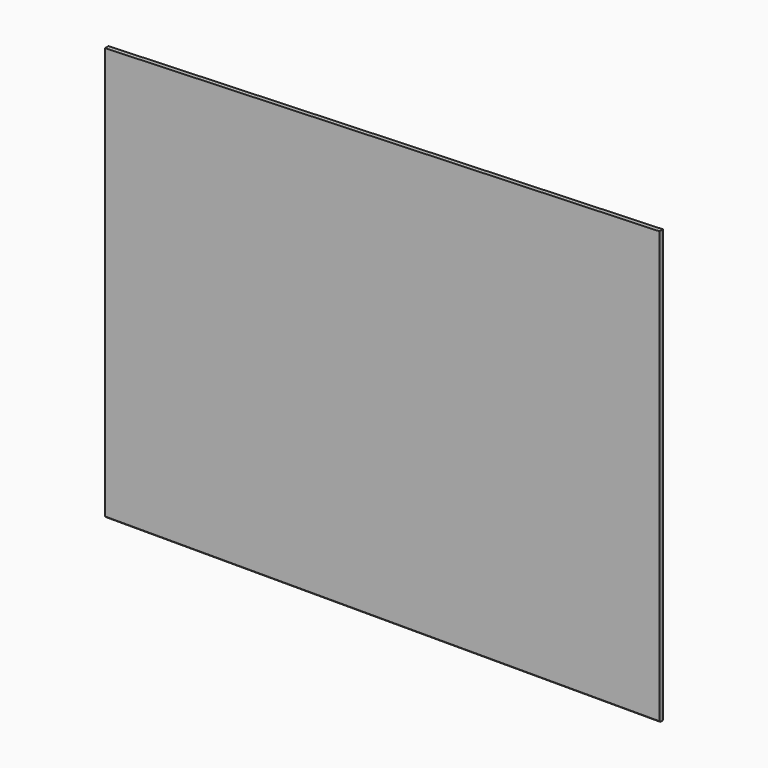
from build123d import *

# Parameters (mm, degrees)
F1_DEPTH = 5.08
F3_DEPTH = 751.84


with BuildPart() as f1:
    # F0 (on Front) → F1 (new body)
    with BuildSketch(Plane.XZ):
        Polygon((0, 482.6), (0, 0), (647.7, 0), (647.7, 504.825), align=None)
    extrude(amount=-F1_DEPTH)

    # F2 (on face) → F3 (cut)
    with BuildSketch(Plane.YZ.offset(647.7)):
        Polygon((5.08, 1.116884), (3.951849, 0), (5.08, 0), align=None)
        Polygon((0, 1.122531), (0, 0), (1.122533, 0), align=None)
    extrude(amount=-F3_DEPTH, mode=Mode.SUBTRACT)


solid = f1.part
